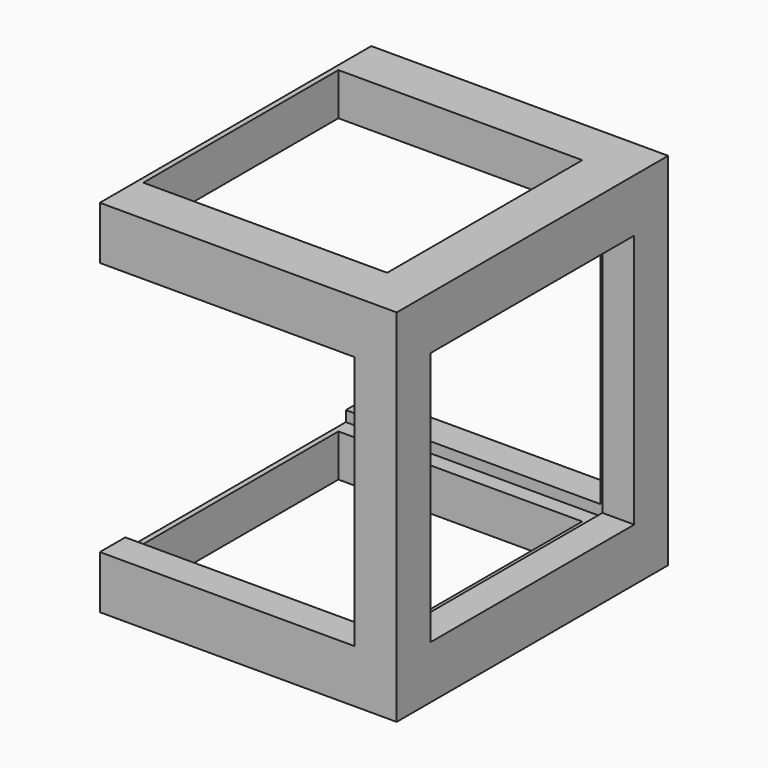
from build123d import *

# Parameters (mm, degrees)
F0_W      = 16
F0_H      = 16
F0_W_2    = 13
F0_H_2    = 13
F1_DEPTH  = 13
F2_W      = 16
F2_H      = 16
F2_W_2    = 11.5
F2_H_2    = 11.5
F3_DEPTH  = 2
F4_W      = 16
F4_H      = 16
F4_W_2    = 11.5
F4_H_2    = 11.5
F5_DEPTH  = 2
F6_W      = 12
F6_H      = 12
F7_DEPTH  = 16.001
F8_W      = 12
F8_H      = 12
F9_DEPTH  = 1.5
F10_W     = 16
F10_H     = 17
F11_DEPTH = 2


with BuildPart() as f1:
    # F0 (on Top) → F1 (new body)
    with BuildSketch(Plane.XY):
        Rectangle(F0_W, F0_H)
        Rectangle(F0_W_2, F0_H_2, mode=Mode.SUBTRACT)
    extrude(amount=F1_DEPTH)

    # F2 (on face) → F3 (join)
    with BuildSketch(Plane(origin=(0, 0, 0), x_dir=(1, 0, 0), z_dir=(0, 0, -1))):
        Rectangle(F2_W, F2_H)
        Rectangle(F2_W_2, F2_H_2, mode=Mode.SUBTRACT)
    extrude(amount=F3_DEPTH)

    # F4 (on face) → F5 (join)
    with BuildSketch(Plane.XY.offset(13)):
        Rectangle(F4_W, F4_H)
        Rectangle(F4_W_2, F4_H_2, mode=Mode.SUBTRACT)
    extrude(amount=F5_DEPTH)

    # F6 (on face) → F7 (cut, through all)
    with BuildSketch(Plane(origin=(0, 8, 0), x_dir=(-1, 0, 0), z_dir=(0, 1, 0))):
        with Locations((0, 6.5)):
            Rectangle(F6_W, F6_H)
    extrude(amount=-F7_DEPTH, mode=Mode.SUBTRACT)

    # F8 (on face) → F9 (cut, through all)
    with BuildSketch(Plane.YZ.offset(8)):
        with Locations((0, 6.5)):
            Rectangle(F8_W, F8_H)
    extrude(amount=-F9_DEPTH, mode=Mode.SUBTRACT)

    # F10 (on face) → F11 (cut)
    with BuildSketch(Plane(origin=(-8, 0, 0), x_dir=(0, -1, 0), z_dir=(-1, 0, 0))):
        with Locations((0, 6.5)):
            Rectangle(F10_W, F10_H)
    extrude(amount=-F11_DEPTH, mode=Mode.SUBTRACT)


solid = f1.part
